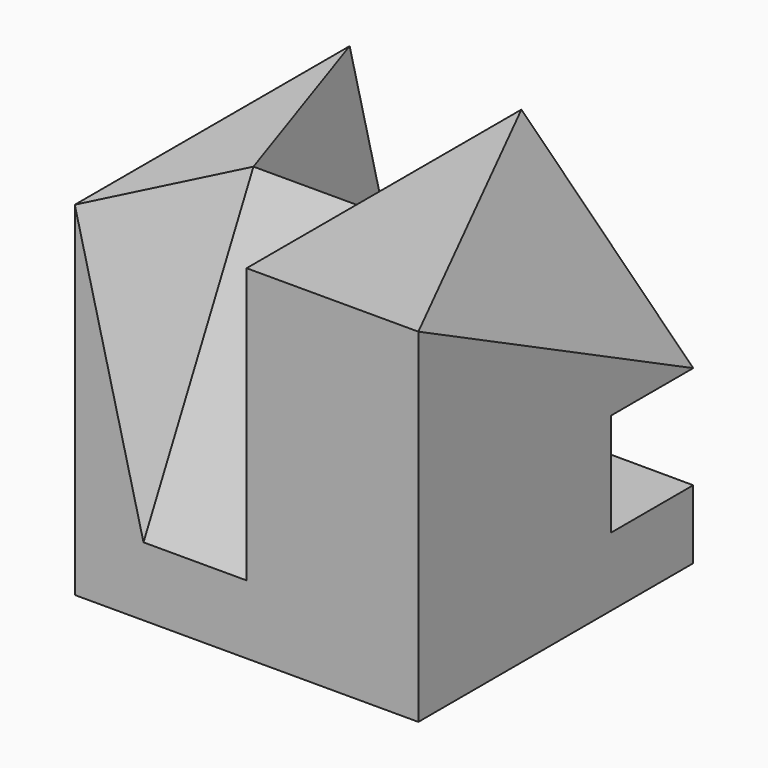
from build123d import *

# Parameters (mm, degrees)
F0_W      = 50
F0_H      = 50
F1_DEPTH  = 50
F11_W     = 15
F11_H     = 20
F14_W     = 15
F14_H     = 30
F18_DEPTH = 15


with BuildPart() as f1:
    # F0 (on Top) → F1 (new body)
    with BuildSketch(Plane.XY):
        with Locations((25, 25)):
            Rectangle(F0_W, F0_H)
    extrude(amount=F1_DEPTH)

    # F4: sweep along a path in F3
    with BuildLine(Plane(origin=(0, 0, 0), x_dir=(0, -1, 0), z_dir=(-1, 0, 0))) as f4_path:
        Line((-20, 50), (-50, 10))
    # F2 (on face) → F4 (sweep, cut)
    with BuildSketch(Plane.XY.offset(50)):
        Polygon((10, 50), (0, 50), (10, 20), align=None)
    sweep(path=f4_path.line, mode=Mode.SUBTRACT)

    # F7: sweep along a path in F6
    with BuildLine(Plane(origin=(0, 0, 0), x_dir=(0, -1, 0), z_dir=(-1, 0, 0))) as f7_path:
        Line((-20, 50), (0, 10))
    # F5 (on face) → F7 (sweep, cut)
    with BuildSketch(Plane.XY.offset(50)):
        Polygon((10, 0), (10, 20), (0, 0), align=None)
    sweep(path=f7_path.line, mode=Mode.SUBTRACT)

    # F10: sweep along a path in F9
    with BuildLine(Plane.YZ.offset(50)) as f10_path:
        Line((0, 50), (50, 25))
    # F8 (on face) → F10 (sweep, cut)
    with BuildSketch(Plane.XY.offset(50)):
        Polygon((50, 50), (25, 50), (50, 0), align=None)
    sweep(path=f10_path.line, mode=Mode.SUBTRACT)

    # F13: sweep along a path in F12
    with BuildLine(Plane(origin=(0, 0, 0), x_dir=(0, -1, 0), z_dir=(-1, 0, 0))) as f13_path:
        Line((-20, 50), (0, 10))
    # F11 (on face) → F13 (sweep, cut)
    with BuildSketch(Plane.XY.offset(50)):
        with Locations((17.5, 10)):
            Rectangle(F11_W, F11_H)
    sweep(path=f13_path.line, mode=Mode.SUBTRACT)

    # F16: sweep along a path in F15
    with BuildLine(Plane(origin=(0, 0, 0), x_dir=(0, -1, 0), z_dir=(-1, 0, 0))) as f16_path:
        Line((-20, 50), (-50, 10))
    # F14 (on face) → F16 (sweep, cut)
    with BuildSketch(Plane.XY.offset(50)):
        with Locations((17.5, 35)):
            Rectangle(F14_W, F14_H)
    sweep(path=f16_path.line, mode=Mode.SUBTRACT)

    # F17 (on face) → F18 (cut)
    with BuildSketch(Plane(origin=(0, 50, 0), x_dir=(-1, 0, 0), z_dir=(0, 1, 0))):
        Polygon((-30.000045, 10.042553), (-50, 25), (-50, 10), align=None)
    extrude(amount=-F18_DEPTH, mode=Mode.SUBTRACT)


solid = f1.part
